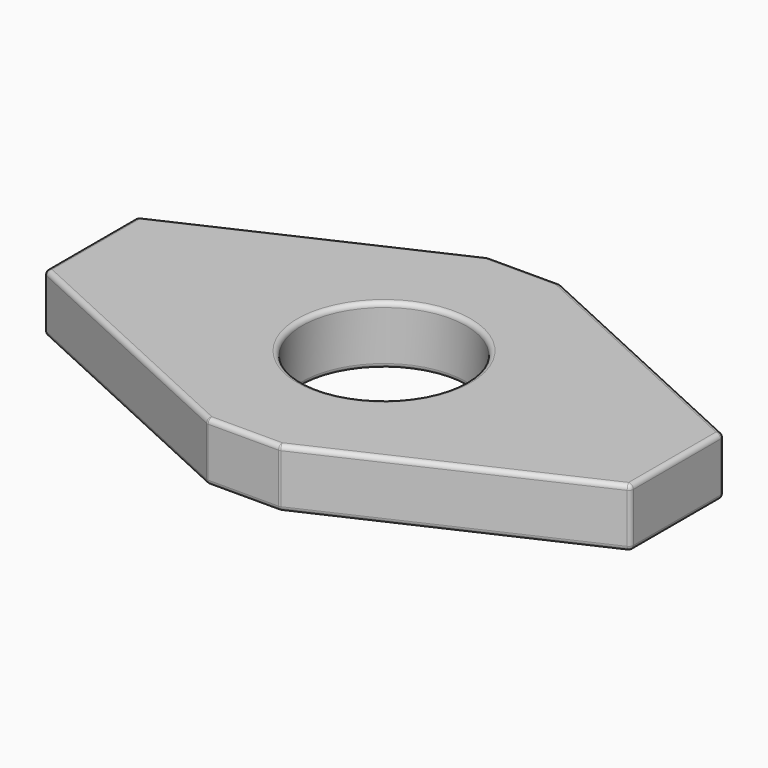
from build123d import *

# Parameters (mm, degrees)
F0_R     = 8.89
F1_DEPTH = 6.35
F2_R     = 0.508


with BuildPart() as f1:
    # F0 (on Top) → F1 (new body)
    with BuildSketch(Plane.XY):
        Polygon((0, -12.812661), (-27.827339, 0), (-35.672661, 0), (-63.5, -12.812661), (-63.5, -25.287339), (-35.672661, -38.1), (-27.827339, -38.1), (0, -25.287339), align=None)
        with Locations((-31.75, -19.05)):
            Circle(F0_R, mode=Mode.SUBTRACT)
    extrude(amount=F1_DEPTH)

    # F2
    f2_edges = [f1.edges().sort_by_distance(p)[0] for p in [
        (-63.5, -25.287339, 3.175),
        (-35.672661, -38.1, 3.175),
        (-49.58633, -31.693669, 0),
        (-49.58633, -31.693669, 6.35),
        (-13.91367, -6.406331, 6.35),
        (-31.75, 0, 6.35),
        (-49.58633, -6.406331, 6.35),
        (-63.5, -19.05, 6.35),
        (-31.75, -38.1, 6.35),
        (-13.91367, -31.693669, 6.35),
        (0, -19.05, 6.35),
        (-40.64, -19.05, 6.35),
        (-13.91367, -6.406331, 0),
        (-31.75, 0, 0),
        (-49.58633, -6.406331, 0),
        (-63.5, -19.05, 0),
        (-31.75, -38.1, 0),
        (-13.91367, -31.693669, 0),
        (0, -19.05, 0),
        (-40.64, -19.05, 0),
        (-63.5, -12.812661, 3.175),
        (-35.672661, 0, 3.175),
        (-27.827339, 0, 3.175),
        (0, -12.812661, 3.175),
        (0, -25.287339, 3.175),
        (-27.827339, -38.1, 3.175),
    ]]
    fillet(f2_edges, radius=F2_R)


solid = f1.part
